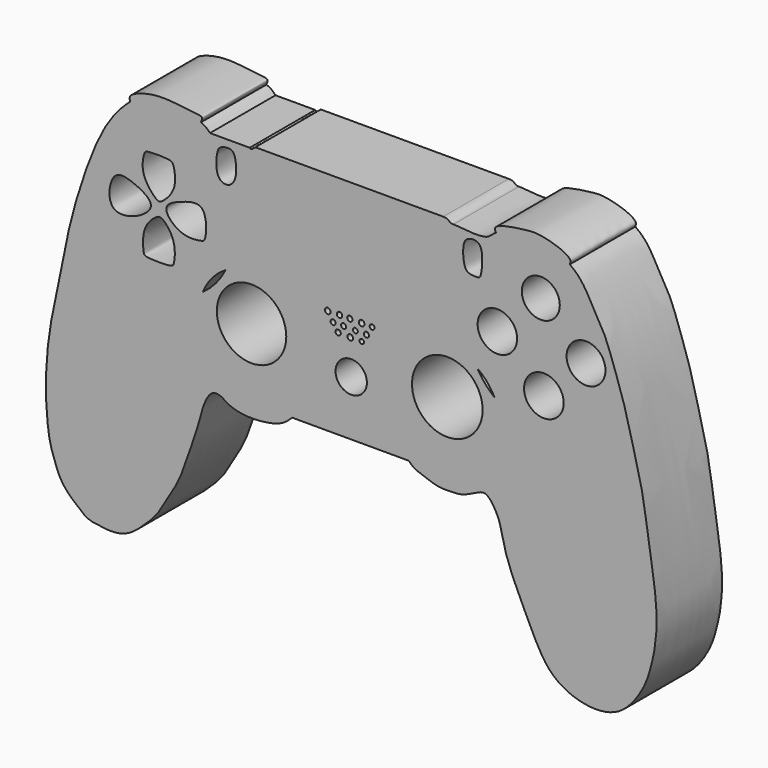
from build123d import *

# Parameters (mm, degrees)
F0_R     = 0.1941186199
F0_R_2   = 0.2063942399
F0_R_3   = 0.1865670847
F0_R_4   = 0.1855942751
F0_R_5   = 0.2085773592
F0_R_6   = 0.1982954609
F0_R_7   = 0.1923260904
F0_R_8   = 1.1493715914
F0_R_9   = 0.1673612264
F0_R_10  = 0.1773296068
F0_R_11  = 0.1891686726
F0_R_12  = 0.2086852398
F0_R_13  = 0.1775952352
F0_R_14  = 2.5450967712
F0_R_15  = 2.5877480532
F0_R_16  = 1.4533317295
F0_R_17  = 1.4469316174
F0_R_18  = 1.3920104328
F0_R_19  = 1.4262755206
F1_DEPTH = 6


with BuildPart() as f1:
    # F0 (on Front) → F1 (new body)
    with BuildSketch(Plane.XZ):
        with BuildLine():
            add(Edge.make_bspline(
                [(11.6668166593, 8.4774699062), (11.4581135239, 8.5105135305), (11.1018766618, 8.8298537688), (9.5997922959, 9.9837603842), (9.0622773866, 11.601843475), (8.6396184477, 12.7884464966), (8.3416104604, 16.2899683261), (8.7226026228, 19.9567445237), (9.1957932674, 21.910330072), (9.7824898343, 25.0149027766), (10.5120943189, 28.5233167791), (12.461698773, 34.1756736094), (14.0845354274, 35.9047455481), (14.5419851074, 36.3320423424), (14.6448883911, 36.4159453509)],
                knots=[0, 0, 0, 0, 0.0339288758, 0.0915107683, 0.1459870014, 0.1929950589, 0.2720252188, 0.3540115099, 0.4140838329, 0.4869654564, 0.5697246394, 0.6735954333, 0.7402085471, 0.7593755516, 0.7593755516, 0.7593755516, 0.7593755516], degree=3))
            add(Edge.make_bspline(
                [(26.5256706625, 19.892597571), (26.3129136309, 19.6852825938), (25.8313091873, 19.2159969794), (24.4203798019, 18.8817874207), (22.8269753251, 18.8677621823), (21.7808357092, 19.2225648798), (21.3149869887, 19.6159222272), (20.643429163, 19.7152182662), (20.1728547923, 18.9862522637), (19.9245940839, 18.2839807332), (19.7108880259, 17.3987516015), (19.2519903853, 16.0202513766), (18.7404398349, 14.4956421852), (18.1427393914, 12.8787907443), (17.264618894, 11.5982770048), (16.9087187582, 10.818767728), (16.2762856019, 10.028225034), (15.7581292072, 9.5145030468), (14.4566408743, 8.294423292), (13.072881289, 8.2229411291), (12.3467104907, 8.3354323849), (11.8373041438, 8.3956674845), (11.6668166593, 8.4774699062)],
                knots=[0, 0, 0, 0, 0.0465373358, 0.1043005854, 0.1662250673, 0.2161198864, 0.2534061257, 0.2896994238, 0.3324599675, 0.3746192483, 0.4203777184, 0.478591714, 0.5406217523, 0.6048047222, 0.6644955132, 0.709680006, 0.7567169456, 0.7991478675, 0.8626565176, 0.9187222134, 0.9606373609, 1, 1, 1, 1], degree=3))
            Line((26.5256706625, 19.892597571), (35.0618623197, 19.892597571))
            add(Edge.make_bspline(
                [(46.8682318588, 36.3978685945), (47.1770722826, 36.1901267626), (47.9204917437, 35.493143255), (48.6203656143, 33.9993176806), (49.4310963774, 32.8335642919), (50.1461458692, 30.7292089457), (50.8454237396, 28.8172475641), (51.5072110302, 26.1380218887), (52.2380138399, 23.3915187199), (52.5270333709, 21.1644714299), (52.9529819584, 18.5618123721), (53.2919920546, 16.1201873933), (53.1819238482, 13.9155461729), (52.8541884656, 12.4953987465), (52.415111269, 10.8985334932), (51.0500764214, 8.9223798947), (49.4377201884, 8.224463375), (47.404781773, 8.3696311979), (45.2463218917, 9.4967298103), (44.0536926914, 11.9525699369), (43.0721088435, 14.0051410278), (42.4070374661, 15.5009838174), (41.9712990977, 16.8982143184), (41.7302547671, 18.3360661901), (41.0197241856, 19.433518373), (40.5483433267, 19.6735214525), (40.0569175056, 19.465313381), (39.075932335, 18.9454778693), (38.3551985366, 18.9171608468), (37.2016644718, 18.8422158067), (36.0645598468, 19.3286038937), (35.4963874132, 19.4732420928), (35.2069676999, 19.7525579346), (35.0618623197, 19.892597571)],
                knots=[0.135636722, 0.135636722, 0.135636722, 0.135636722, 0.1534056299, 0.1837492021, 0.2103326856, 0.2428398969, 0.2748646862, 0.3117305226, 0.3491879098, 0.3824891389, 0.4183452437, 0.4536129967, 0.4862443066, 0.5127112775, 0.5412011554, 0.5750515722, 0.6037549981, 0.6347071223, 0.6685337768, 0.7049470969, 0.7386305244, 0.7668058482, 0.7934308687, 0.8205874573, 0.8454253524, 0.8601672991, 0.8758162517, 0.8989725825, 0.9180127749, 0.9417117362, 0.9663136044, 0.9831107661, 1, 1, 1, 1], degree=3))
            add(Edge.make_bspline(
                [(41.4548106492, 36.677710712), (41.9202396355, 36.9273518106), (43.8679130086, 37.0673774652), (45.7576574874, 37.0046312669), (46.6439330992, 36.5487433882), (46.8682318588, 36.3978685945)],
                knots=[0.0545111578, 0.0545111578, 0.0545111578, 0.0545111578, 0.0884494336, 0.1227318569, 0.135636722, 0.135636722, 0.135636722, 0.135636722], degree=3))
            add(Edge.make_bspline(
                [(38.3536294103, 36.2163707614), (39.3487154672, 36.1180818941), (40.906382022, 35.9642245666), (41.1848134637, 36.5328929288), (41.4548106492, 36.677710712)],
                knots=[0, 0, 0, 0, 0.0348234305, 0.0545111578, 0.0545111578, 0.0545111578, 0.0545111578], degree=3))
            add(Edge.make_bspline(
                [(37.5914648175, 36.4646241069), (38.1215922534, 36.4742055535), (37.9848480225, 36.1477918923), (38.3536294103, 36.2163707614)],
                knots=[0, 0, 0, 0, 0.8015763158, 0.8015763158, 0.8015763158, 0.8015763158], degree=3))
            add(Edge.make_bspline(
                [(37.5914648175, 36.4646241069), (37.7368806649, 36.3834362477), (38.0520833542, 36.2074538356), (38.3593659539, 35.6727986606), (38.2097092735, 29.2878220694), (38.0271366746, 28.8709616446), (37.5303442284, 28.510110336), (34.8734101548, 28.6221990536), (31.6083061723, 28.6582031734), (28.2253994065, 28.6655230037), (24.6489179303, 28.6101540701), (23.8207422053, 28.7193097901), (23.163518312, 29.1109519168), (23.1999325441, 30.9532622635), (23.313792754, 34.3903317862), (23.1887219872, 35.8240818242), (23.4403799122, 36.1365682911), (23.5333036198, 36.251970239)],
                knots=[0, 0, 0, 0, 0.0354323508, 0.0768030756, 0.2073708418, 0.2426751913, 0.2773987784, 0.3599290702, 0.4560508614, 0.5546129769, 0.6514923595, 0.6973918278, 0.7366145087, 0.8048954018, 0.9041526851, 0.9646064431, 1, 1, 1, 1], degree=3))
            add(Edge.make_bspline(
                [(23.409569636, 36.2981446087), (23.4482186653, 36.2517668616), (23.4903845378, 36.2416179378), (23.5333036198, 36.251970239)],
                knots=[0, 0, 0, 0, 0.1291728543, 0.1291728543, 0.1291728543, 0.1291728543], degree=3))
            add(Edge.make_bspline(
                [(20.4958692193, 36.2981446087), (21.499828125, 36.2981446087), (22.4056107303, 36.2981446087), (23.409569636, 36.2981446087)],
                knots=[0, 0, 0, 0, 2.9137004167, 2.9137004167, 2.9137004167, 2.9137004167], degree=3))
            add(Edge.make_bspline(
                [(19.826932137, 36.7670562374), (19.9410564751, 36.7279429366), (20.1939772052, 36.6107772861), (20.381516447, 36.4218554313), (20.4958692193, 36.2981446087)],
                knots=[0.9516927023, 0.9516927023, 0.9516927023, 0.9516927023, 0.9701675308, 1, 1, 1, 1], degree=3))
            add(Edge.make_bspline(
                [(14.6448883911, 36.4159453509), (14.7496374604, 36.5013533353), (15.0934178023, 36.7406669729), (16.0427128298, 37.074472356), (17.5890312406, 37.1411573711), (19.1931557641, 36.940378447), (19.7208475925, 36.8034140973), (19.826932137, 36.7670562374)],
                knots=[0.7593755516, 0.7593755516, 0.7593755516, 0.7593755516, 0.7788863564, 0.8229753014, 0.8768701569, 0.9345193823, 0.9516927023, 0.9516927023, 0.9516927023, 0.9516927023], degree=3))
        make_face()
        with Locations((29.8888281679, 26.4848972667)):
            Circle(F0_R, mode=Mode.SUBTRACT)
        with Locations((30.7789176002, 26.4564012941)):
            Circle(F0_R_2, mode=Mode.SUBTRACT)
        with BuildLine():
            ThreePointArc((19.9788265731, 25.8775926399), (12.2199886071, 32.5762791085), (22.1829524285, 30.1656113832))
            ThreePointArc((22.1829524285, 30.1656113832), (22.0444869501, 28.965144935), (21.6363623616, 27.8277238599))
            ThreePointArc((21.6363623616, 27.8277238599), (25.6031313683, 27.8647037823), (27.5972678009, 24.4354117628))
            ThreePointArc((27.5972678009, 24.4354117628), (22.9176469736, 20.5585402011), (19.9788265731, 25.8775926399))
        make_face(mode=Mode.SUBTRACT)
        with Locations((29.5191976391, 27.0244297045)):
            Circle(F0_R_3, mode=Mode.SUBTRACT)
        with Locations((30.2884618795, 27.0340749356)):
            Circle(F0_R_4, mode=Mode.SUBTRACT)
        with Locations((29.1253929111, 27.6285179094)):
            Circle(F0_R_5, mode=Mode.SUBTRACT)
        with Locations((29.9902867822, 27.6501643457)):
            Circle(F0_R_6, mode=Mode.SUBTRACT)
        with Locations((30.7478877232, 27.6552300876)):
            Circle(F0_R_7, mode=Mode.SUBTRACT)
        with BuildLine():
            add(Edge.make_bspline(
                [(21.0521109402, 35.2951213717), (21.1136924135, 35.5082983402), (21.2933401836, 35.7029787844), (22.0732032824, 35.8393560691), (22.4076629284, 35.3163813781), (22.4903456863, 33.8750826152), (21.8316030117, 33.2314258921), (20.8685698344, 33.5492197795), (20.9390407409, 34.9037055606), (21.0521109402, 35.2951213717)],
                knots=[0, 0, 0, 0, 0.1076734141, 0.2340420353, 0.3477383012, 0.5318536911, 0.6686478579, 0.8023000466, 1, 1, 1, 1], degree=3))
        make_face(mode=Mode.SUBTRACT)
        with Locations((30.8479815603, 23.9303856663)):
            Circle(F0_R_8, mode=Mode.SUBTRACT)
        with Locations((31.6159360065, 26.4661559466)):
            Circle(F0_R_9, mode=Mode.SUBTRACT)
        with Locations((31.1531300364, 27.0188220587)):
            Circle(F0_R_10, mode=Mode.SUBTRACT)
        with Locations((31.9615892712, 27.0162720674)):
            Circle(F0_R_11, mode=Mode.SUBTRACT)
        with Locations((31.6119389053, 27.650647755)):
            Circle(F0_R_12, mode=Mode.SUBTRACT)
        with Locations((32.3770629543, 27.6412324194)):
            Circle(F0_R_13, mode=Mode.SUBTRACT)
        with BuildLine():
            ThreePointArc((41.3635447474, 26.007414842), (41.6691444212, 25.1536183893), (41.7728176404, 24.2527236081))
            ThreePointArc((41.7728176404, 24.2527236081), (34.2873624785, 22.4239827776), (40.086384367, 27.4981996771))
            ThreePointArc((40.086384367, 27.4981996771), (43.2847218468, 35.1571520714), (49.8646449033, 30.0981475266))
            ThreePointArc((49.8646449033, 30.0981475266), (46.8997171117, 25.3810828207), (41.3635447474, 26.007414842))
        make_face(mode=Mode.SUBTRACT)
        with BuildLine():
            add(Edge.make_bspline(
                [(40.3493456542, 33.6087048054), (40.3108802618, 33.4650681032), (40.2025721634, 33.3333952602), (39.447976347, 33.3673670225), (39.0665417626, 33.7542649019), (38.9753097049, 35.3774944535), (39.511551021, 35.7062443828), (40.065762563, 35.7243510122), (40.5398678723, 35.2871579271), (40.4399620226, 33.947082643), (40.3493456542, 33.6087048054)],
                knots=[0, 0, 0, 0, 0.0800910788, 0.1995048955, 0.3064446941, 0.4877089901, 0.5964416725, 0.6997712018, 0.8113222759, 1, 1, 1, 1], degree=3))
        make_face(mode=Mode.SUBTRACT)
        with BuildLine():
            add(Edge.make_bspline(
                [(14.6448883911, 36.4159453509), (14.6130671427, 36.5381183972), (14.5280856788, 36.8627974314), (15.5725857254, 37.3014727007), (16.7587028271, 37.4884891585), (18.0142471632, 37.4148653913), (19.4539934642, 37.2119038299), (20.0016429498, 37.1760810829), (19.8843084062, 36.9013507221), (19.826932137, 36.7670562374)],
                knots=[0, 0, 0, 0, 0.0951065989, 0.2525439672, 0.4306871646, 0.6126026811, 0.8070236747, 0.9058121153, 1, 1, 1, 1], degree=3))
            add(Edge.make_bspline(
                [(14.6448883911, 36.4159453509), (14.7496374604, 36.5013533353), (15.0934178023, 36.7406669729), (16.0427128298, 37.074472356), (17.5890312406, 37.1411573711), (19.1931557641, 36.940378447), (19.7208475925, 36.8034140973), (19.826932137, 36.7670562374)],
                knots=[0.7593755516, 0.7593755516, 0.7593755516, 0.7593755516, 0.7788863564, 0.8229753014, 0.8768701569, 0.9345193823, 0.9516927023, 0.9516927023, 0.9516927023, 0.9516927023], degree=3))
        make_face()
        with BuildLine():
            add(Edge.make_bspline(
                [(41.4548106492, 36.677710712), (41.9202396355, 36.9273518106), (43.8679130086, 37.0673774652), (45.7576574874, 37.0046312669), (46.6439330992, 36.5487433882), (46.8682318588, 36.3978685945)],
                knots=[0.0545111578, 0.0545111578, 0.0545111578, 0.0545111578, 0.0884494336, 0.1227318569, 0.135636722, 0.135636722, 0.135636722, 0.135636722], degree=3))
            add(Edge.make_bspline(
                [(41.4548106492, 36.677710712), (41.4026183179, 36.8085158941), (41.2258659263, 37.2514836049), (43.6701812543, 37.5868662218), (44.5543410301, 37.6576645984), (46.2065738379, 37.2489810447), (46.9993637328, 36.7402410759), (46.9041572911, 36.4906634716), (46.8682318588, 36.3978685945)],
                knots=[0, 0, 0, 0, 0.1044253613, 0.3537969585, 0.5338087096, 0.7543178605, 0.9091822166, 1, 1, 1, 1], degree=3))
        make_face()
        with BuildLine():
            add(Edge.make_bspline(
                [(23.5333036198, 36.251970239), (23.6373365298, 36.2770635068), (23.7457948792, 36.4226105606), (23.8193199039, 36.4646241069)],
                knots=[0.1291728543, 0.1291728543, 0.1291728543, 0.1291728543, 0.4422789904, 0.4422789904, 0.4422789904, 0.4422789904], degree=3))
            add(Edge.make_bspline(
                [(37.5914648175, 36.4646241069), (37.7368806649, 36.3834362477), (38.0520833542, 36.2074538356), (38.3593659539, 35.6727986606), (38.2097092735, 29.2878220694), (38.0271366746, 28.8709616446), (37.5303442284, 28.510110336), (34.8734101548, 28.6221990536), (31.6083061723, 28.6582031734), (28.2253994065, 28.6655230037), (24.6489179303, 28.6101540701), (23.8207422053, 28.7193097901), (23.163518312, 29.1109519168), (23.1999325441, 30.9532622635), (23.313792754, 34.3903317862), (23.1887219872, 35.8240818242), (23.4403799122, 36.1365682911), (23.5333036198, 36.251970239)],
                knots=[0, 0, 0, 0, 0.0354323508, 0.0768030756, 0.2073708418, 0.2426751913, 0.2773987784, 0.3599290702, 0.4560508614, 0.5546129769, 0.6514923595, 0.6973918278, 0.7366145087, 0.8048954018, 0.9041526851, 0.9646064431, 1, 1, 1, 1], degree=3))
            Line((37.5914648175, 36.4646241069), (23.8193199039, 36.4646241069))
        make_face()
        with BuildLine():
            ThreePointArc((21.6363623616, 27.8277238599), (20.9277049916, 26.7505689697), (19.9788265731, 25.8775926399))
            ThreePointArc((19.9788265731, 25.8775926399), (22.9176469736, 20.5585402011), (27.5972678009, 24.4354117628))
            ThreePointArc((27.5972678009, 24.4354117628), (25.6031313683, 27.8647037823), (21.6363623616, 27.8277238599))
        make_face()
        with Locations((23.542461175, 24.9806613551)):
            Circle(F0_R_14, mode=Mode.SUBTRACT)
        with BuildLine():
            ThreePointArc((21.6363623616, 27.8277238599), (22.0444869501, 28.965144935), (22.1829524285, 30.1656113832))
            ThreePointArc((22.1829524285, 30.1656113832), (12.2199886071, 32.5762791085), (19.9788265731, 25.8775926399))
            ThreePointArc((19.9788265731, 25.8775926399), (20.6450839645, 26.9907858649), (21.6363623616, 27.8277238599))
        make_face()
        with BuildLine():
            add(Edge.make_bspline(
                [(15.7269407064, 28.5736434162), (15.9090142884, 29.0754057991), (16.5163999869, 29.6287797877), (16.9944312642, 29.7684576869), (18.0580048809, 28.5338577024), (17.8804065865, 26.9820700044), (17.6750115635, 26.7223211529), (15.7504392013, 26.7244582437), (15.6059423106, 27.0182205953), (15.5297562818, 28.0302382411), (15.7269407064, 28.5736434162)],
                knots=[0, 0, 0, 0, 0.1464898599, 0.2248533973, 0.3794803163, 0.5334735251, 0.6033344872, 0.7735700009, 0.8413524994, 1, 1, 1, 1], degree=3))
        make_face(mode=Mode.SUBTRACT)
        with BuildLine():
            add(Edge.make_bspline(
                [(13.5066341609, 31.236641109), (13.8299359629, 31.5798299087), (14.875370562, 31.3415553786), (16.786339181, 30.297564369), (15.0140487369, 28.9371427809), (12.8644735792, 28.7818268487), (13.119519853, 30.8257145571), (13.5066341609, 31.236641109)],
                knots=[0, 0, 0, 0, 0.1826677072, 0.3815637346, 0.5808329613, 0.7812777949, 1, 1, 1, 1], degree=3))
        make_face(mode=Mode.SUBTRACT)
        with BuildLine():
            add(Edge.make_bspline(
                [(17.2994099557, 30.4007325321), (17.3364284495, 30.7731111854), (18.446437354, 31.2411820473), (20.3150717319, 31.7545397635), (20.2400044734, 29.2333635248), (19.8234284095, 29.110837603), (18.3286180446, 28.8994880173), (17.2595049225, 29.9993174274), (17.2994099557, 30.4007325321)],
                knots=[0, 0, 0, 0, 0.1727960905, 0.3515999986, 0.5512797062, 0.6385717656, 0.8137300295, 1, 1, 1, 1], degree=3))
        make_face(mode=Mode.SUBTRACT)
        with BuildLine():
            add(Edge.make_bspline(
                [(15.6358629465, 32.0851840079), (15.4785557521, 32.6168235002), (15.6622648115, 33.3930185671), (15.7881709124, 33.6892594842), (17.6356091915, 33.658599666), (17.829947872, 33.3930934666), (18.1695137721, 31.829298177), (16.9765212555, 30.674115417), (16.5912395254, 30.6221440745), (15.8150047647, 31.4797516522), (15.6358629465, 32.0851840079)],
                knots=[0, 0, 0, 0, 0.1464112603, 0.2133122992, 0.3799111605, 0.4520425577, 0.6059740277, 0.763251608, 0.8332664983, 1, 1, 1, 1], degree=3))
        make_face(mode=Mode.SUBTRACT)
        with BuildLine():
            ThreePointArc((40.086384367, 27.4981996771), (34.2873624785, 22.4239827776), (41.7728176404, 24.2527236081))
            ThreePointArc((41.7728176404, 24.2527236081), (41.6691444212, 25.1536183893), (41.3635447474, 26.007414842))
            ThreePointArc((41.3635447474, 26.007414842), (40.6544584169, 26.6924044121), (40.086384367, 27.4981996771))
        make_face()
        with Locations((37.8904090926, 24.9250375098)):
            Circle(F0_R_15, mode=Mode.SUBTRACT)
        with BuildLine():
            ThreePointArc((40.086384367, 27.4981996771), (40.818655947, 26.8330729882), (41.3635447474, 26.007414842))
            ThreePointArc((41.3635447474, 26.007414842), (46.8997171117, 25.3810828207), (49.8646449033, 30.0981475266))
            ThreePointArc((49.8646449033, 30.0981475266), (43.2847218468, 35.1571520714), (40.086384367, 27.4981996771))
        make_face()
        with Locations((44.9671181414, 27.3072758645)):
            Circle(F0_R_16, mode=Mode.SUBTRACT)
        with Locations((41.5596091564, 30.3424050901)):
            Circle(F0_R_17, mode=Mode.SUBTRACT)
        with Locations((44.7439912229, 33.5273686796)):
            Circle(F0_R_18, mode=Mode.SUBTRACT)
        with Locations((48.0584156777, 30.4064731871)):
            Circle(F0_R_19, mode=Mode.SUBTRACT)
    extrude(amount=F1_DEPTH)


solid = f1.part
